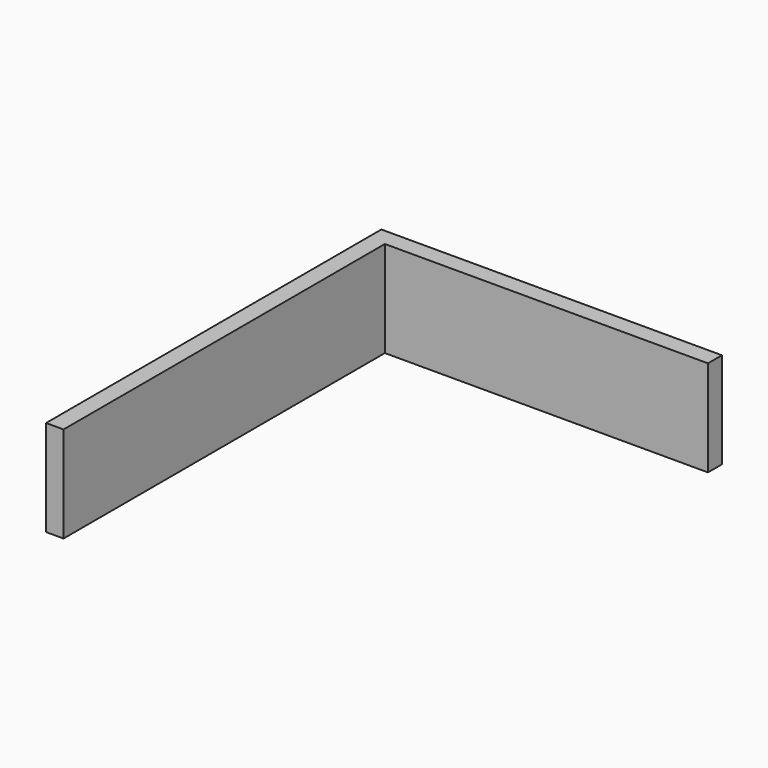
from build123d import *

# Parameters (mm, degrees)
BOX006_W     = 25.4
BOX006_H     = 609.6
BOX006_DEPTH = 139.7
BOX005_W     = 495.3
BOX005_H     = 25.4
BOX005_DEPTH = 139.7


with BuildPart() as cube001:
    # Box006 → Box006 (new body)
    with BuildSketch(Plane(origin=(0, -609.6, 406.4), x_dir=(1, 0, 0), z_dir=(0, 0, 1))):
        with Locations((12.7, 304.8)):
            Rectangle(BOX006_W, BOX006_H)
    extrude(amount=BOX006_DEPTH)


with BuildPart() as wallelectricalcord:
    # Box005 → Box005 (new body)
    with BuildSketch(Plane(origin=(0, -25.4, 406.4), x_dir=(1, 0, 0), z_dir=(0, 0, 1))):
        with Locations((247.65, 12.7)):
            Rectangle(BOX005_W, BOX005_H)
    extrude(amount=BOX005_DEPTH)

    # Fusion001: union Cube001
    add(cube001.part)


solid = wallelectricalcord.part
